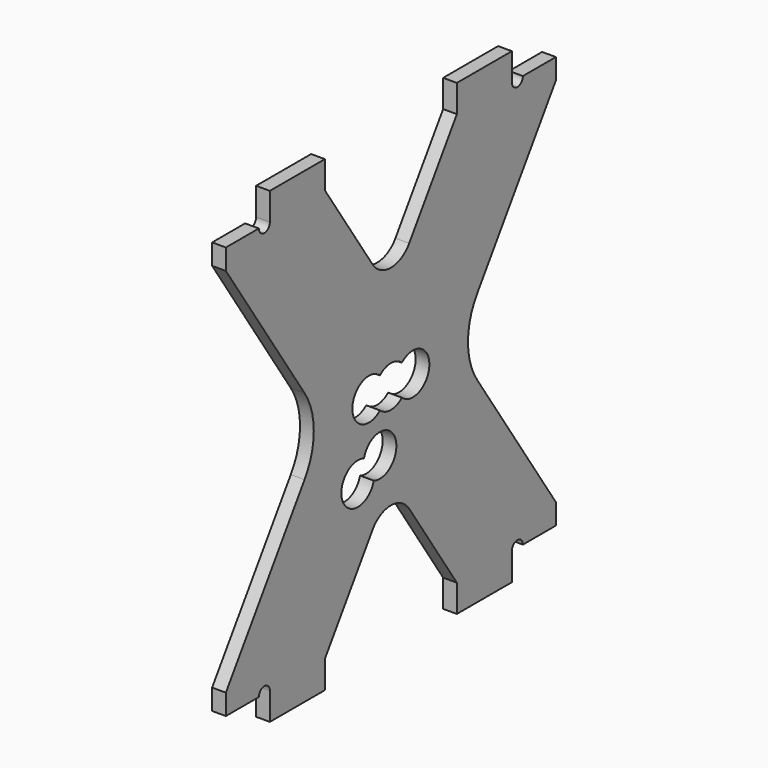
from build123d import *

# Parameters (mm, degrees)
F0_R      = 1.5
F1_DEPTH  = 1
F2_W      = 1
F2_H      = 30
F3_DEPTH  = 5
F4_W      = 1
F4_H      = 30
F5_DEPTH  = 5
F6_R      = 0.5
F7_DEPTH  = 25
F9_DEPTH  = 25
F10_W     = 5
F10_H     = 35
F11_DEPTH = 25
F12_R     = 1.5
F13_DEPTH = 25


with BuildPart() as f1:
    # F0 (on Right) → F1 (new body)
    with BuildSketch(Plane.YZ):
        with BuildLine():
            Line((-6, 17), (-11, 17))
            Line((-11, 17), (-11, 0))
            Line((-11, 0), (-11, -17))
            Line((-11, -17), (-6, -17))
            Line((-6, -17), (-6, -15))
            Line((-6, -15), (-1.664101, -8.496151))
            ThreePointArc((-1.664101, -8.496151), (0, -7.605551), (1.664101, -8.496151))
            Line((1.664101, -8.496151), (6, -15))
            Line((6, -15), (6, -17))
            Line((6, -17), (11, -17))
            Line((11, -17), (11, 0))
            Line((11, 0), (11, 17))
            Line((11, 17), (6, 17))
            Line((6, 17), (6, 15))
            Line((6, 15), (1.664101, 8.496151))
            ThreePointArc((1.664101, 8.496151), (0, 7.605551), (-1.664101, 8.496151))
            Line((-1.664101, 8.496151), (-6, 15))
            Line((-6, 15), (-6, 17))
        make_face()
        with Locations((-2, 0)):
            Circle(F0_R, mode=Mode.SUBTRACT)
        with Locations((2, 0)):
            Circle(F0_R, mode=Mode.SUBTRACT)
    extrude(amount=F1_DEPTH)

    # F2 (on face) → F3 (join)
    with BuildSketch(Plane.XZ.offset(11)):
        with Locations((0.5, 0)):
            Rectangle(F2_W, F2_H)
    extrude(amount=F3_DEPTH)

    # F4 (on face) → F5 (join)
    with BuildSketch(Plane(origin=(0, 11, 0), x_dir=(-1, 0, 0), z_dir=(0, 1, 0))):
        with Locations((-0.5, 0)):
            Rectangle(F4_W, F4_H)
    extrude(amount=F5_DEPTH)

    # F6 (on face) → F7 (cut)
    with BuildSketch(Plane.YZ.offset(1)):
        with Locations((-11.5, 15)):
            Circle(F6_R)
        with Locations((11.5, 15)):
            Circle(F6_R)
        with Locations((-11.5, -15)):
            Circle(F6_R)
        with Locations((11.5, -15)):
            Circle(F6_R)
    extrude(amount=-F7_DEPTH, mode=Mode.SUBTRACT)

    # F8 (on face) → F9 (cut)
    with BuildSketch(Plane.YZ.offset(1)):
        with BuildLine():
            Line((-7.849001, 2.773501), (-16, 15))
            Line((-16, 15), (-16, -15))
            Line((-16, -15), (-7.849001, -2.773501))
            ThreePointArc((-7.849001, -2.773501), (-7.009252, 0), (-7.849001, 2.773501))
        make_face()
        with BuildLine():
            Line((16, -15), (16, 15))
            Line((16, 15), (7.849001, 2.773501))
            ThreePointArc((7.849001, 2.773501), (7.009252, 0), (7.849001, -2.773501))
            Line((7.849001, -2.773501), (16, -15))
        make_face()
    extrude(amount=-F9_DEPTH, mode=Mode.SUBTRACT)

    # F10 (on face) → F11 (cut)
    with BuildSketch(Plane.YZ.offset(1)):
        with Locations((-17.5, 0)):
            Rectangle(F10_W, F10_H)
        with Locations((17.5, 0)):
            Rectangle(F10_W, F10_H)
    extrude(amount=-F11_DEPTH, mode=Mode.SUBTRACT)

    # F12 (on face) → F13 (cut)
    with BuildSketch(Plane.YZ.offset(1)):
        Circle(F12_R)
        with BuildLine():
            ThreePointArc((-2.447214, -3.605573), (-4.341641, -5.67082), (-1.552786, -5.394427))
            ThreePointArc((-1.552786, -5.394427), (0.341641, -3.32918), (-2.447214, -3.605573))
        make_face()
    extrude(amount=-F13_DEPTH, mode=Mode.SUBTRACT)


solid = f1.part
